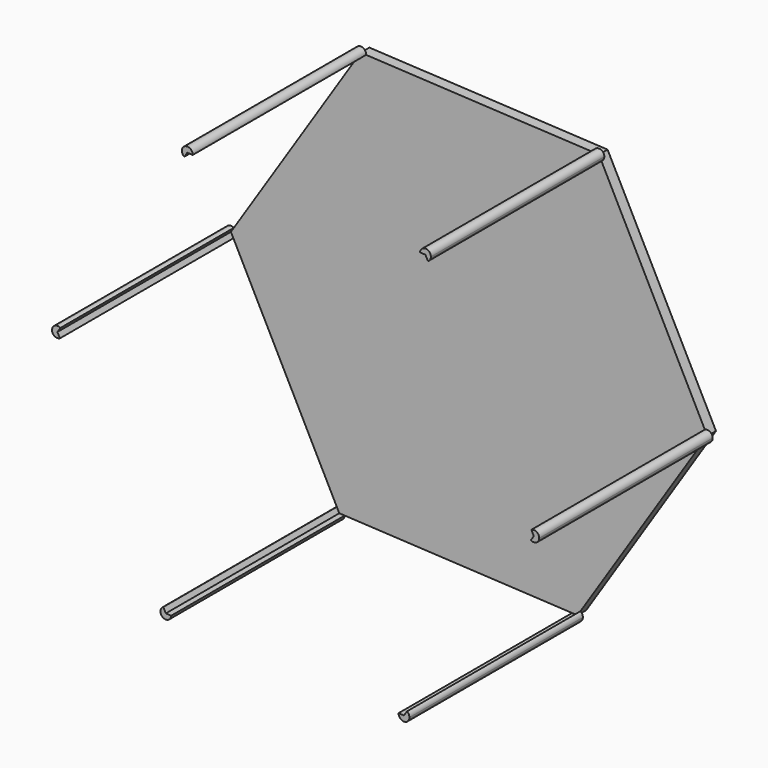
from build123d import *

# Parameters (mm, degrees)
F1_DEPTH = 1
F3_DEPTH = 20


with BuildPart() as f1:
    # F0 (on Front) → F1 (new body)
    with BuildSketch(Plane.XZ):
        Polygon((-43.2492189092, 38.7434536126), (-31.2743358982, 57.1988641167), (-41.2697487264, 76.7971222636), (-63.2400445657, 77.9399699065), (-75.2149275767, 59.4845594025), (-65.2195147485, 39.8863012555), align=None)
    extrude(amount=F1_DEPTH)


with BuildPart() as f3:
    # F2 (on face) → F3 (new body)
    with BuildSketch(Plane.XZ.offset(1)):
        with BuildLine():
            ThreePointArc((-62.7407196603, 77.9139960964), (-62.7402133678, 77.9269786155), (-62.7400445657, 77.9399699065))
            ThreePointArc((-62.7400445657, 77.9399699065), (-63.4787093766, 78.3793320669), (-63.5122009978, 77.5205287587))
            Line((-63.5122009978, 77.5205287587), (-63.2400445657, 77.9399699065))
            Line((-63.2400445657, 77.9399699065), (-62.7407196603, 77.9139960964))
        make_face()
    extrude(amount=F3_DEPTH)


with BuildPart() as f3b:
    # F2 (on face) → F3, piece 2 (new body)
    with BuildSketch(Plane.XZ.offset(1)):
        with BuildLine():
            ThreePointArc((-40.7697487264, 76.7971222636), (-41.2567574355, 77.2969534615), (-41.7690736319, 76.8230960737))
            Line((-41.7690736319, 76.8230960737), (-41.2697487264, 76.7971222636))
            Line((-41.2697487264, 76.7971222636), (-41.0425802531, 76.3517073057))
            ThreePointArc((-41.0425802531, 76.3517073057), (-40.8433778569, 76.5359558767), (-40.7697487264, 76.7971222636))
        make_face()
    extrude(amount=F3_DEPTH)


with BuildPart() as f3c:
    # F2 (on face) → F3, piece 3 (new body)
    with BuildSketch(Plane.XZ.offset(1)):
        with BuildLine():
            ThreePointArc((-30.7743358982, 57.1988641167), (-31.0131695113, 57.6252349861), (-31.5015043716, 57.6442790746))
            Line((-31.5015043716, 57.6442790746), (-31.2743358982, 57.1988641167))
            Line((-31.2743358982, 57.1988641167), (-31.5464923303, 56.7794229688))
            ThreePointArc((-31.5464923303, 56.7794229688), (-31.0356710873, 56.7595019562), (-30.7743358982, 57.1988641167))
        make_face()
    extrude(amount=F3_DEPTH)


with BuildPart() as f3d:
    # F2 (on face) → F3, piece 4 (new body)
    with BuildSketch(Plane.XZ.offset(1)):
        with BuildLine():
            Line((-43.2492189092, 38.7434536126), (-43.7485438147, 38.7694274227))
            ThreePointArc((-43.7485438147, 38.7694274227), (-43.2622102002, 38.2436224148), (-42.7492189092, 38.7434536126))
            ThreePointArc((-42.7492189092, 38.7434536126), (-42.8098567488, 38.9821184236), (-42.9770624772, 39.1628947605))
            Line((-42.9770624772, 39.1628947605), (-43.2492189092, 38.7434536126))
        make_face()
    extrude(amount=F3_DEPTH)


with BuildPart() as f3e:
    # F2 (on face) → F3, piece 5 (new body)
    with BuildSketch(Plane.XZ.offset(1)):
        with BuildLine():
            Line((-65.2195147485, 39.8863012555), (-65.4466832219, 40.3317162134))
            ThreePointArc((-65.4466832219, 40.3317162134), (-65.4916711806, 39.4668601077), (-64.7201898431, 39.8603274455))
            Line((-64.7201898431, 39.8603274455), (-65.2195147485, 39.8863012555))
        make_face()
    extrude(amount=F3_DEPTH)


with BuildPart() as f3f:
    # F2 (on face) → F3, piece 6 (new body)
    with BuildSketch(Plane.XZ.offset(1)):
        with BuildLine():
            Line((-75.2149275767, 59.4845594025), (-74.9427711447, 59.9040005503))
            ThreePointArc((-74.9427711447, 59.9040005503), (-75.7142524822, 59.5105332125), (-74.9877591034, 59.0391444446))
            Line((-74.9877591034, 59.0391444446), (-75.2149275767, 59.4845594025))
        make_face()
    extrude(amount=F3_DEPTH)


solid = Compound([f1.part, f3.part, f3b.part, f3c.part, f3d.part, f3e.part, f3f.part])
